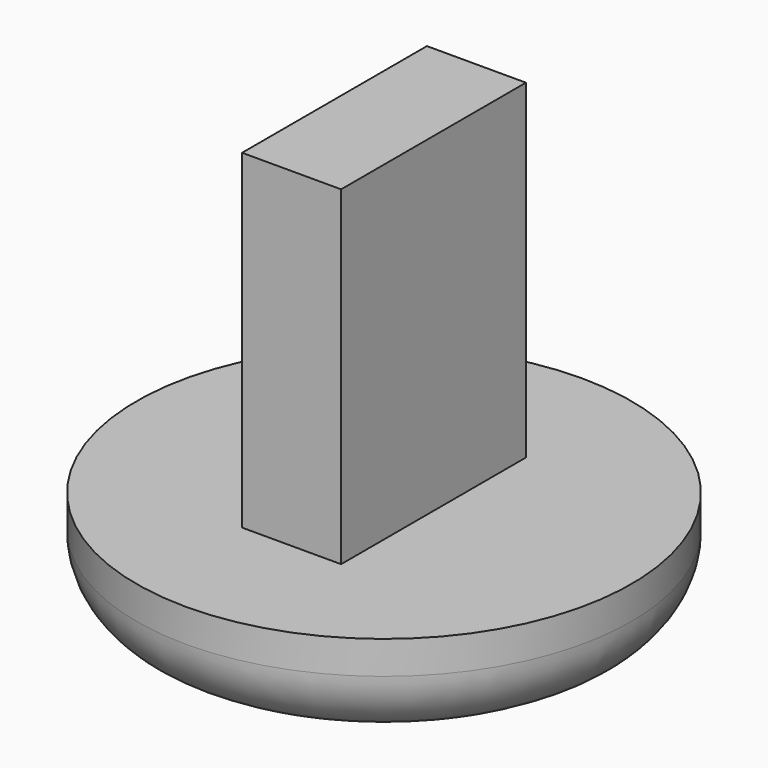
from build123d import *

# Parameters (mm, degrees)
F0_W     = 4.7625
F0_H     = 1.905
F2_W     = 1.905
F2_H     = 4.445
F3_DEPTH = 6.35
F4_R     = 1.27


with BuildPart() as f1:
    # F0 (on Right) → F1 (revolve)
    with BuildSketch(Plane.YZ):
        with Locations((-2.38125, -0.9525)):
            Rectangle(F0_W, F0_H)
    revolve(axis=Axis((0, 0, -0.9525), (0, 0, 1)))

    # F4
    f4_edges = [f1.edges().sort_by_distance(p)[0] for p in [
        (0, 4.7625, -1.905),
    ]]
    fillet(f4_edges, radius=F4_R)


with BuildPart() as f3:
    # F2 (on face) → F3 (new body)
    with BuildSketch(Plane.XY):
        Rectangle(F2_W, F2_H)
    extrude(amount=F3_DEPTH)


solid = Compound([f1.part, f3.part])
